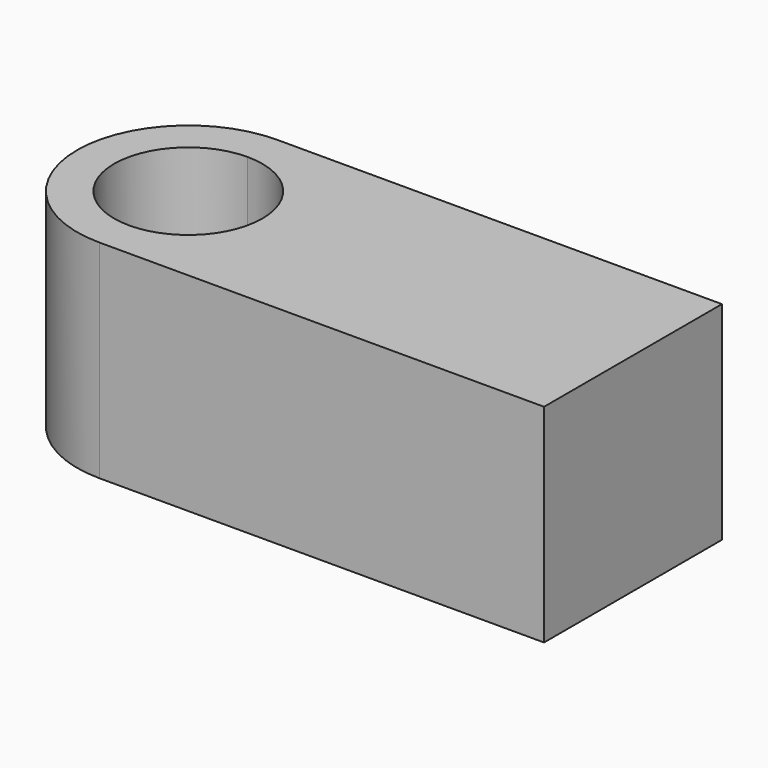
from build123d import *

# Parameters (mm, degrees)
F1_DEPTH = 14


with BuildPart() as f1:
    # F0 (on Top) → F1 (new body)
    with BuildSketch(Plane.XY):
        with BuildLine():
            ThreePointArc((15, 7.5), (22.5, 0), (15, -7.5))
            Line((15, -7.5), (45, -7.5))
            Line((45, -7.5), (45, 7.5))
            Line((45, 7.5), (15, 7.5))
        make_face()
        with BuildLine():
            ThreePointArc((15, 7.5), (7.5, 0), (15, -7.5))
            Line((15, -7.5), (15, -5))
            ThreePointArc((15, -5), (10, 0), (15, 5))
            Line((15, 5), (15, 7.5))
        make_face()
        with BuildLine():
            Line((15, -5), (15, -7.5))
            ThreePointArc((15, -7.5), (22.5, 0), (15, 7.5))
            Line((15, 7.5), (15, 5))
            ThreePointArc((15, 5), (18.535534, 3.535534), (20, 0))
            ThreePointArc((20, 0), (18.535534, -3.535534), (15, -5))
        make_face()
    extrude(amount=F1_DEPTH)


solid = f1.part
